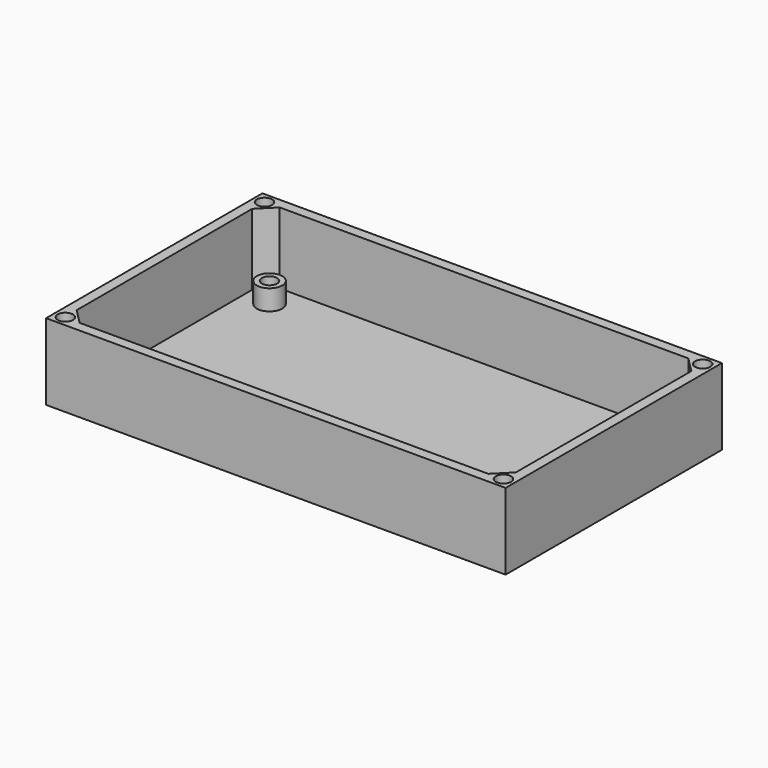
from build123d import *

# Parameters (mm, degrees)
SKETCH019_R      = 1.5
EXTRUDE022_DEPTH = 4
SKETCH020_R      = 2.5
EXTRUDE020_DEPTH = 4
SKETCH022_W      = 90.25
SKETCH022_H      = 53.1
EXTRUDE019_DEPTH = 1
SKETCH038_R      = 1.5
EXTRUDE038_DEPTH = 13
SKETCH021_W      = 90.25
SKETCH021_H      = 53.1
EXTRUDE021_DEPTH = 15


with BuildPart() as extrude_mainboardcase_holes:
    # Sketch019 → Extrude022 (new body)
    with BuildSketch(Plane.XY):
        with Locations((3, 42.1)):
            Circle(SKETCH019_R)
        with Locations((3, 3)):
            Circle(SKETCH019_R)
        with Locations((79.25, 42.1)):
            Circle(SKETCH019_R)
        with Locations((79.25, 3)):
            Circle(SKETCH019_R)
    extrude(amount=EXTRUDE022_DEPTH)


with BuildPart() as extrude_mainboardcase_holes_1:
    # Extrude022 placement: moved
    add(extrude_mainboardcase_holes.part.moved(Location((0, 0, 1))))


with BuildPart() as obj1:
    # Sketch020 → Extrude020 (new body)
    with BuildSketch(Plane.XY):
        with Locations((3, 42.1)):
            Circle(SKETCH020_R)
        with Locations((79.25, 3)):
            Circle(SKETCH020_R)
        with Locations((79.25, 42.1)):
            Circle(SKETCH020_R)
        with Locations((3, 3)):
            Circle(SKETCH020_R)
    extrude(amount=EXTRUDE020_DEPTH)


with BuildPart() as obj1_1:
    # Extrude020 placement: moved
    add(obj1.part.moved(Location((0, 0, 1))))

    # Cut: cut Extrude_MainBoardCase_holes
    add(extrude_mainboardcase_holes_1.part, mode=Mode.SUBTRACT)


with BuildPart() as extrude_mainboardcase_bottom:
    # Sketch022 → Extrude019 (new body)
    with BuildSketch(Plane.XY):
        with Locations((41.125, 22.55)):
            Rectangle(SKETCH022_W, SKETCH022_H)
    extrude(amount=EXTRUDE019_DEPTH)


with BuildPart() as extrude038:
    # Sketch038 → Extrude038 (new body)
    with BuildSketch(Plane.XY):
        with Locations((-1.9, 47)):
            Circle(SKETCH038_R)
        with Locations((84.15, 47)):
            Circle(SKETCH038_R)
        with Locations((-1.9, -1.9)):
            Circle(SKETCH038_R)
        with Locations((84.15, -1.9)):
            Circle(SKETCH038_R)
    extrude(amount=EXTRUDE038_DEPTH)


with BuildPart() as extrude038_1:
    # Extrude038 placement: moved
    add(extrude038.part.moved(Location((0, 0, 2))))


with BuildPart() as fusion_mainboardcase_bottom:
    # Sketch021 → Extrude021 (new body)
    with BuildSketch(Plane.XY):
        with Locations((41.125, 22.55)):
            Rectangle(SKETCH021_W, SKETCH021_H)
        Polygon((1, 47.1), (81.25, 47.1), (84.25, 44.1), (84.25, 1), (81.25, -2), (1, -2), (-2, 1), (-2, 44.1), align=None, mode=Mode.SUBTRACT)
    extrude(amount=EXTRUDE021_DEPTH)

    # Cut009: cut Extrude038
    add(extrude038_1.part, mode=Mode.SUBTRACT)

    # Fusion011: union obj1, Extrude_MainBoardCase_Bottom
    add(obj1_1.part)
    add(extrude_mainboardcase_bottom.part)


solid = fusion_mainboardcase_bottom.part
